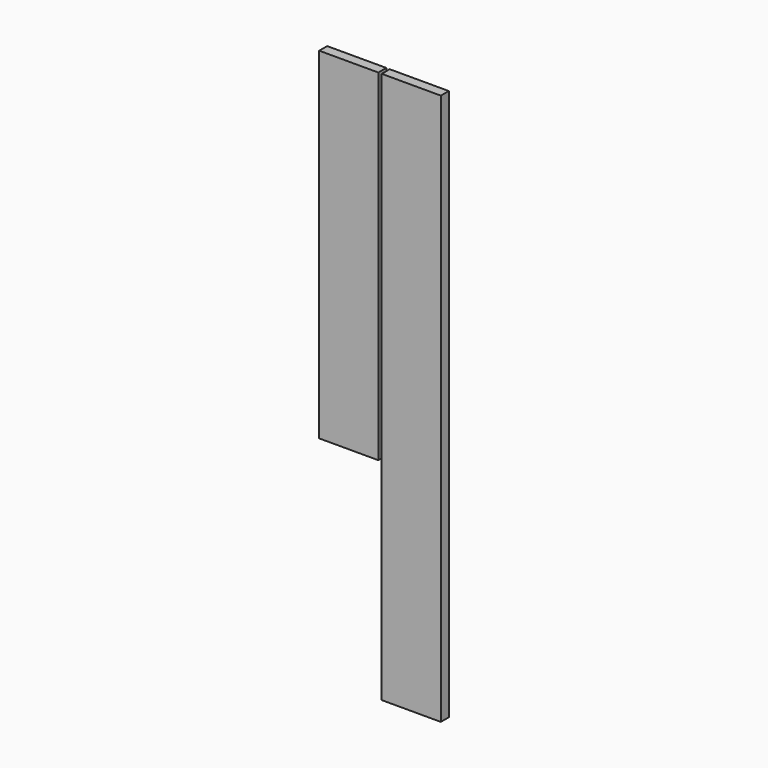
from build123d import *

# Parameters (mm, degrees)
F0_W     = 225
F0_H     = 38
F1_DEPTH = 2100
F2_DEPTH = 1300


with BuildPart() as f1:
    # F0 (on Top) → F1 (new body)
    with BuildSketch(Plane.XY):
        with Locations((-66.497356, 0)):
            Rectangle(F0_W, F0_H)
    extrude(amount=-F1_DEPTH)


with BuildPart() as f2:
    # F0 (on Top) → F2 (new body)
    with BuildSketch(Plane.XY):
        with Locations((-304.578662, 0.150505)):
            Rectangle(F0_W, F0_H)
    extrude(amount=-F2_DEPTH)


solid = Compound([f1.part, f2.part])
